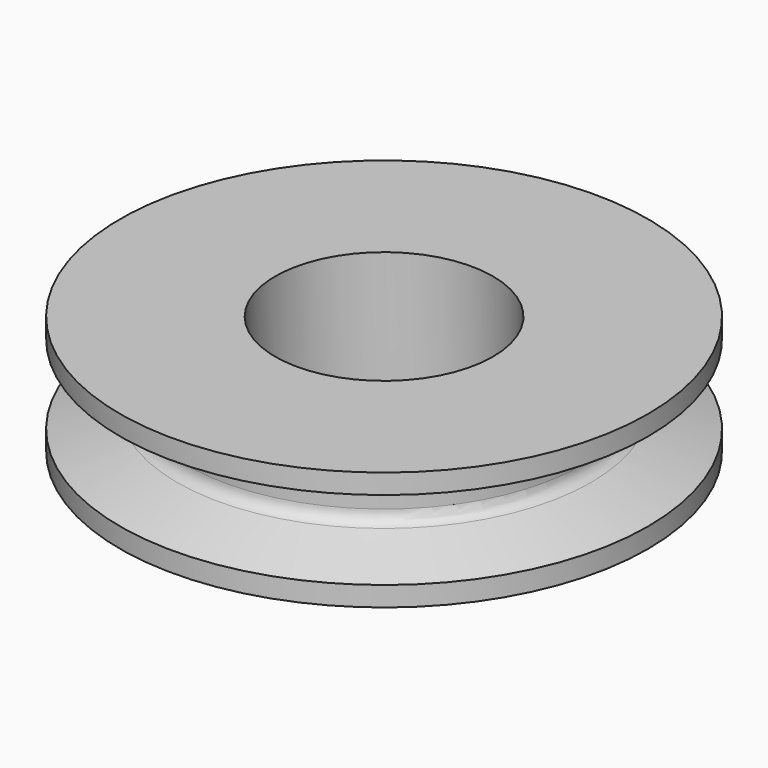
from build123d import *


with BuildPart() as f1:
    # F0 (on Front) → F1 (revolve)
    with BuildSketch(Plane.XZ):
        with BuildLine():
            Line((3.3, 3.6), (3.3, 0))
            Line((3.3, 0), (8, 0))
            Line((8, 0), (8, 0.6))
            Line((8, 0.6), (6.26786, 1.206249))
            ThreePointArc((6.26786, 1.206249), (6.073767, 1.352336), (6, 1.583792))
            Line((6, 1.583792), (6, 2.016208))
            ThreePointArc((6, 2.016208), (6.073767, 2.247664), (6.26786, 2.393751))
            Line((6.26786, 2.393751), (8, 3))
            Line((8, 3), (8, 3.6))
            Line((8, 3.6), (3.3, 3.6))
        make_face()
    revolve(axis=Axis((0, 0, 0.328301), (0, 0, -1)))


solid = f1.part
